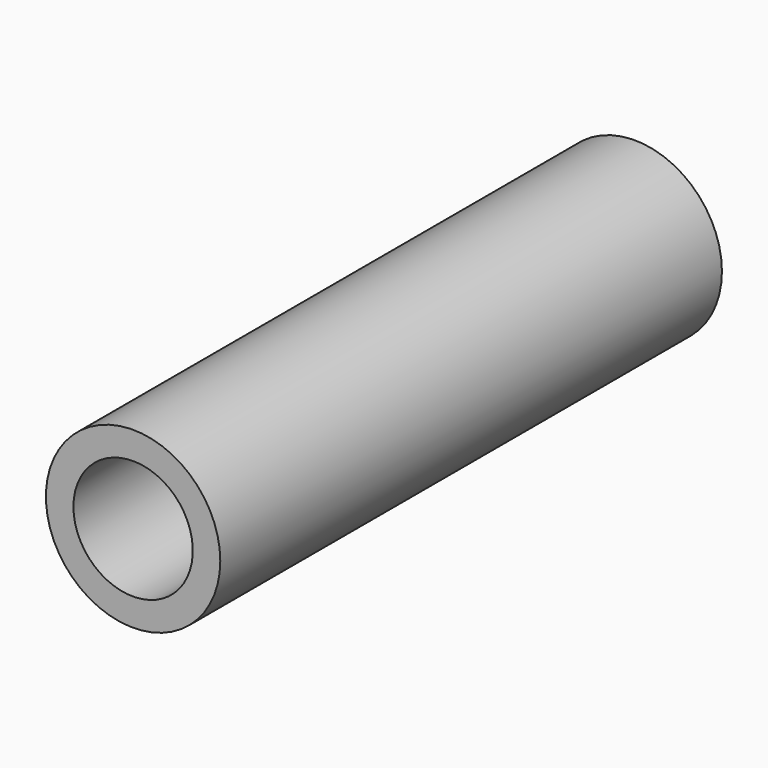
from build123d import *

# Parameters (mm, degrees)
F0_R     = 13.913166
F1_DEPTH = 50.038
F3_D     = 19.05


with BuildPart() as f1:
    # F0 (on Front) → F1 (new body, symmetric)
    with BuildSketch(Plane.XZ):
        Circle(F0_R)
    extrude(amount=F1_DEPTH, both=True)

    # F3 (through all)
    with Locations(Plane.XZ.offset(50.038)):
        with Locations((0, 0), (-145.134643, 14.066561)):
            Hole(F3_D / 2)


solid = f1.part
